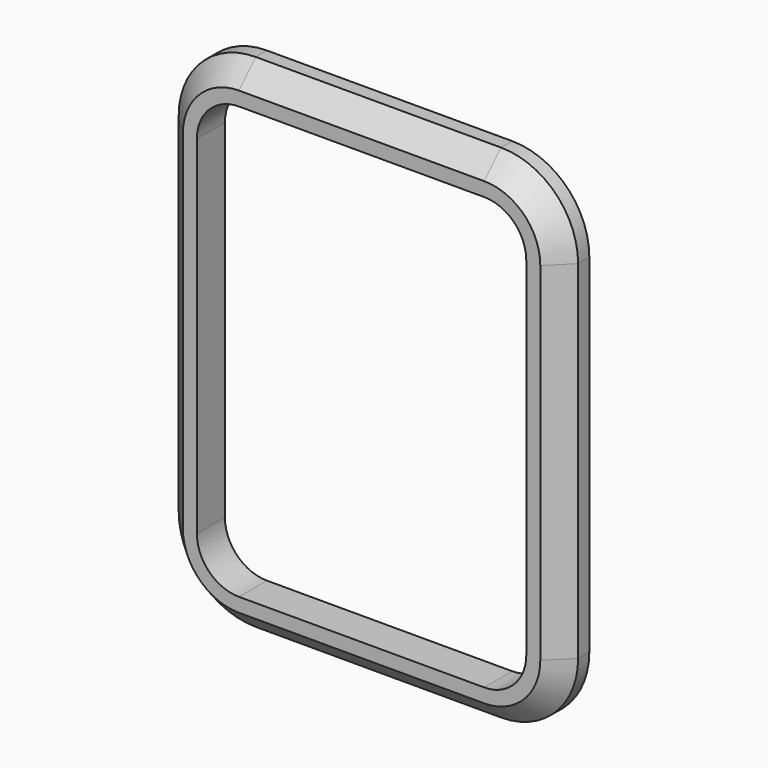
from build123d import *

# Parameters (mm, degrees)
F1_DEPTH = 5
F2_SIZE  = 3


with BuildPart() as f1:
    # F0 (on Front) → F1 (new body)
    with BuildSketch(Plane.XZ):
        with BuildLine():
            Line((17.307692, 36.088463), (-17.692308, 36.088463))
            ThreePointArc((-17.692308, 36.088463), (-25.470484, 32.866637), (-28.692309, 25.088462))
            Line((-28.692309, 25.088462), (-28.692309, -24.511538))
            ThreePointArc((-28.692309, -24.511538), (-25.470484, -32.289714), (-17.692308, -35.51154))
            Line((-17.692308, -35.51154), (17.307692, -35.51154))
            ThreePointArc((17.307692, -35.51154), (25.085868, -32.289714), (28.307693, -24.511538))
            Line((28.307693, -24.511538), (28.307693, 25.088462))
            ThreePointArc((28.307693, 25.088462), (25.085868, 32.866637), (17.307692, 36.088463))
        make_face()
        with BuildLine():
            ThreePointArc((-23.692308, 25.088462), (-21.934949, 29.331102), (-17.692308, 31.088462))
            Line((-17.692308, 31.088462), (17.307692, 31.088462))
            ThreePointArc((17.307692, 31.088462), (21.550333, 29.331102), (23.307692, 25.088462))
            Line((23.307692, 25.088462), (23.307692, -24.511538))
            ThreePointArc((23.307692, -24.511538), (21.550333, -28.754179), (17.307692, -30.511538))
            Line((17.307692, -30.511538), (-17.692308, -30.511538))
            ThreePointArc((-17.692308, -30.511538), (-21.934949, -28.754179), (-23.692308, -24.511538))
            Line((-23.692308, -24.511538), (-23.692308, 25.088462))
        make_face(mode=Mode.SUBTRACT)
    extrude(amount=F1_DEPTH)

    # F2
    f2_edges = [f1.edges().sort_by_distance(p)[0] for p in [
        (28.307693, -5, 0.288462),
    ]]
    chamfer(f2_edges, length=F2_SIZE)


solid = f1.part
